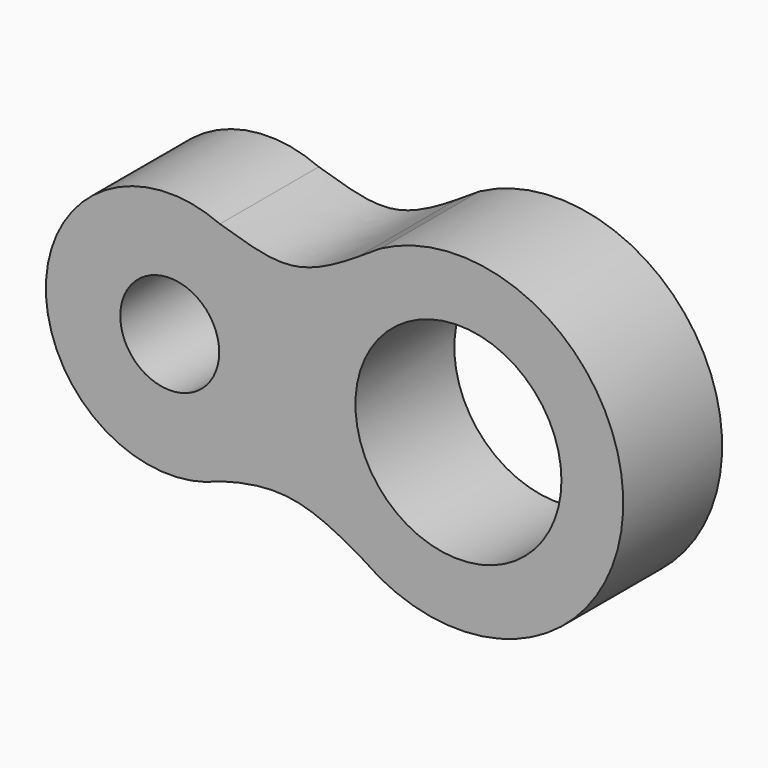
from build123d import *

# Parameters (mm, degrees)
F0_R     = 2.4
F0_R_2   = 5
F1_DEPTH = 6


with BuildPart() as f1:
    # F0 (on Front) → F1 (new body)
    with BuildSketch(Plane.XZ):
        with BuildLine():
            add(Edge.make_bspline(
                [(-4.5759957999, -5.3663848974), (-3.3944030614, -5.0263522526), (-1.1564816937, -4.5735976346), (1.1915972707, -5.7397107149), (2.3027864337, -6.4089476665)],
                knots=[0, 0, 0, 0, 0.4673689741, 0.8842484986, 0.8842484986, 0.8842484986, 0.8842484986], degree=3))
            add(Edge.make_bspline(
                [(2.3027864337, -6.4089476665), (2.6113211695, -6.5947691746), (2.9201786156, -6.7898015167), (3.2289242512, -6.9888996834)],
                knots=[0.8842484986, 0.8842484986, 0.8842484986, 0.8842484986, 1, 1, 1, 1], degree=3))
            ThreePointArc((3.2289242512, -6.9888996834), (15.001806232, 0.0655571744), (3.2289242512, 7.1200140322))
            add(Edge.make_bspline(
                [(2.1087657664, 6.3947083815), (2.4816893958, 6.631967091), (2.8553011873, 6.8792507811), (3.2289242512, 7.1200140322)],
                knots=[0.8599364178, 0.8599364178, 0.8599364178, 0.8599364178, 1, 1, 1, 1], degree=3))
            add(Edge.make_bspline(
                [(-4.5759957999, 5.628613595), (-3.3951999873, 5.2883114962), (-1.214946794, 4.4452120066), (1.0628103891, 5.729258398), (2.1087657664, 6.3947083815)],
                knots=[0, 0, 0, 0, 0.4670939015, 0.8599364178, 0.8599364178, 0.8599364178, 0.8599364178], degree=3))
            ThreePointArc((-4.5759957999, 5.628613595), (-13.022586423, 0.1311143488), (-4.5759957999, -5.3663848974))
        make_face()
        with Locations((-7.0102557888, 0.1311143488)):
            Circle(F0_R, mode=Mode.SUBTRACT)
        with Locations((7.001806232, 0.0655571744)):
            Circle(F0_R_2, mode=Mode.SUBTRACT)
    extrude(amount=F1_DEPTH)


solid = f1.part
